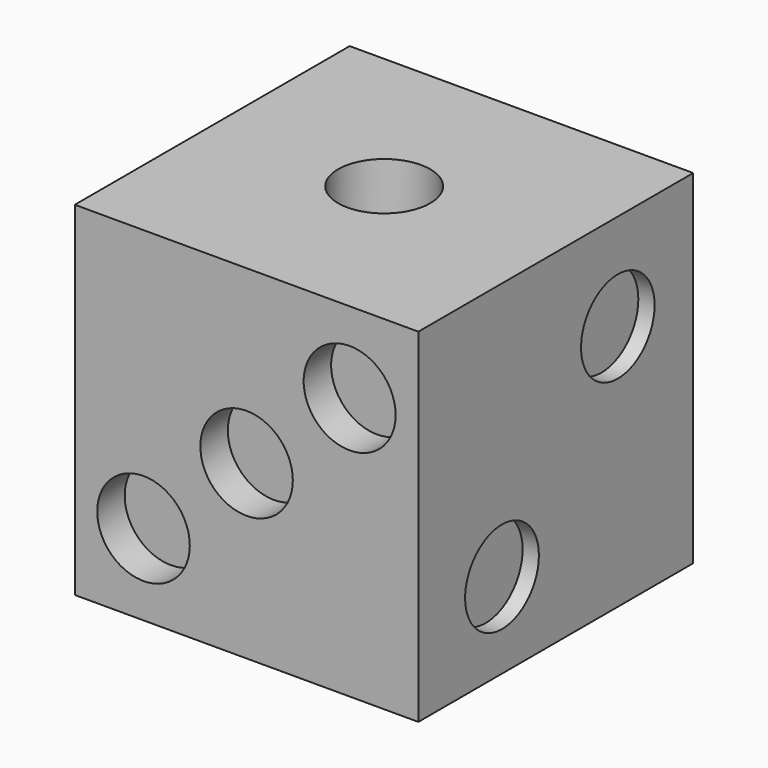
from build123d import *

# Parameters (mm, degrees)
F0_R      = 3.405104
F1_DEPTH  = 25.4
F3_DEPTH  = 20.32
F4_R      = 3.422318
F4_R_2    = 3.418745
F4_R_3    = 3.399739
F5_DEPTH  = 2.54
F6_R      = 3.408954
F6_R_2    = 3.409845
F6_R_3    = 3.399812
F6_R_4    = 3.407384
F7_DEPTH  = 2.54
F9_DEPTH  = 2.54
F10_R     = 3.020938
F10_R_2   = 3.01106
F10_R_3   = 3.009838
F10_R_4   = 3.023548
F10_R_5   = 3.010431
F10_R_6   = 2.996939
F11_DEPTH = 2.54
F2_R      = 3.407459
F2_R_2    = 3.398087
F12_DEPTH = 2.54


with BuildPart() as f1:
    # F0 (on Top) → F1 (new body)
    with BuildSketch(Plane.XY):
        Polygon((-5.147523, 8.376352), (-22.927523, 8.376352), (-26.737523, 8.376352), (-26.737523, 4.566352), (-26.737523, -13.213648), (-26.737523, -17.023648), (-22.927523, -17.023648), (-5.147523, -17.023648), (-1.337523, -17.023648), (-1.337523, -13.213648), (-1.337523, 4.566352), (-1.337523, 8.376352), align=None)
        with Locations((-14.236085, -4.059524)):
            Circle(F0_R, mode=Mode.SUBTRACT)
    extrude(amount=F1_DEPTH)

    # F0 (on Top) → F3 (join)
    with BuildSketch(Plane.XY):
        with Locations((-14.236085, -4.059524)):
            Circle(F0_R)
    extrude(amount=F3_DEPTH)

    # F4 (on face) → F5 (cut)
    with BuildSketch(Plane.XZ.offset(17.023648)):
        with Locations((-21.657523, 5.979792)):
            Circle(F4_R)
        with Locations((-14.037523, 12.7)):
            Circle(F4_R_2)
        with Locations((-6.417523, 19.420208)):
            Circle(F4_R_3)
    extrude(amount=-F5_DEPTH, mode=Mode.SUBTRACT)

    # F6 (on face) → F7 (cut)
    with BuildSketch(Plane(origin=(0, 8.376352, 0), x_dir=(-1, 0, 0), z_dir=(0, 1, 0))):
        with Locations((7.687523, 19.05)):
            Circle(F6_R)
        with Locations((20.387523, 6.35)):
            Circle(F6_R_2)
        with Locations((20.387523, 19.05)):
            Circle(F6_R_3)
        with Locations((7.687523, 6.35)):
            Circle(F6_R_4)
    extrude(amount=-F7_DEPTH, mode=Mode.SUBTRACT)

    # F8 (on face) → F9 (cut)
    with BuildSketch(Plane(origin=(0, 0, 0), x_dir=(1, 0, 0), z_dir=(0, 0, -1))):
        with BuildLine():
            Line((-14.037523, 4.323648), (-10.639824, 4.323648))
            ThreePointArc((-10.639824, 4.323648), (-14.037523, 7.721346), (-17.435221, 4.323648))
            Line((-17.435221, 4.323648), (-14.037523, 4.323648))
        make_face()
        with BuildLine():
            ThreePointArc((-16.966481, -2.026352), (-17.968481, 0.392689), (-20.387523, 1.394689))
            Line((-20.387523, 1.394689), (-20.387523, -5.447394))
            ThreePointArc((-20.387523, -5.447394), (-17.968481, -4.445394), (-16.966481, -2.026352))
        make_face()
        with BuildLine():
            Line((-20.387523, -5.447394), (-20.387523, 1.394689))
            ThreePointArc((-20.387523, 1.394689), (-23.808564, -2.026352), (-20.387523, -5.447394))
        make_face()
        with BuildLine():
            ThreePointArc((-20.387523, 14.08974), (-23.803615, 10.673648), (-20.387523, 7.257555))
            Line((-20.387523, 7.257555), (-20.387523, 14.08974))
        make_face()
        with BuildLine():
            Line((-20.387523, 14.08974), (-20.387523, 7.257555))
            ThreePointArc((-20.387523, 7.257555), (-17.97198, 8.258105), (-16.97143, 10.673648))
            ThreePointArc((-16.97143, 10.673648), (-17.97198, 13.08919), (-20.387523, 14.08974))
        make_face()
        with BuildLine():
            ThreePointArc((-17.435221, 4.323648), (-14.037523, 0.925949), (-10.639824, 4.323648))
            Line((-10.639824, 4.323648), (-14.037523, 4.323648))
            Line((-14.037523, 4.323648), (-17.435221, 4.323648))
        make_face()
        with BuildLine():
            ThreePointArc((-7.687523, 14.080634), (-11.094509, 10.673648), (-7.687523, 7.266661))
            Line((-7.687523, 7.266661), (-7.687523, 14.080634))
        make_face()
        with BuildLine():
            Line((-7.687523, 14.080634), (-7.687523, 7.266661))
            ThreePointArc((-7.687523, 7.266661), (-5.278419, 8.264544), (-4.280536, 10.673648))
            ThreePointArc((-4.280536, 10.673648), (-5.278419, 13.082751), (-7.687523, 14.080634))
        make_face()
        with BuildLine():
            ThreePointArc((-4.270767, -2.026352), (-5.271512, 0.389659), (-7.687523, 1.390403))
            Line((-7.687523, 1.390403), (-7.687523, -5.443108))
            ThreePointArc((-7.687523, -5.443108), (-5.271512, -4.442363), (-4.270767, -2.026352))
        make_face()
        with BuildLine():
            Line((-7.687523, -5.443108), (-7.687523, 1.390403))
            ThreePointArc((-7.687523, 1.390403), (-11.104278, -2.026352), (-7.687523, -5.443108))
        make_face()
    extrude(amount=-F9_DEPTH, mode=Mode.SUBTRACT)

    # F10 (on face) → F11 (cut)
    with BuildSketch(Plane(origin=(-26.737523, 0, 0), x_dir=(0, -1, 0), z_dir=(-1, 0, 0))):
        with Locations((9.403648, 20.32)):
            Circle(F10_R)
        with Locations((9.403648, 12.7)):
            Circle(F10_R_2)
        with Locations((-0.756352, 12.699992)):
            Circle(F10_R_3)
        with Locations((-0.756352, 20.32)):
            Circle(F10_R_4)
        with Locations((-0.756352, 5.08)):
            Circle(F10_R_5)
        with Locations((9.403648, 5.08)):
            Circle(F10_R_6)
    extrude(amount=-F11_DEPTH, mode=Mode.SUBTRACT)

    # F2 (on Right) → F12 (cut)
    with BuildSketch(Plane.YZ):
        with Locations((-9.293744, 6.306227)):
            Circle(F2_R)
        with Locations((1.408402, 18.246217)):
            Circle(F2_R_2)
    extrude(amount=-F12_DEPTH, mode=Mode.SUBTRACT)


solid = f1.part
